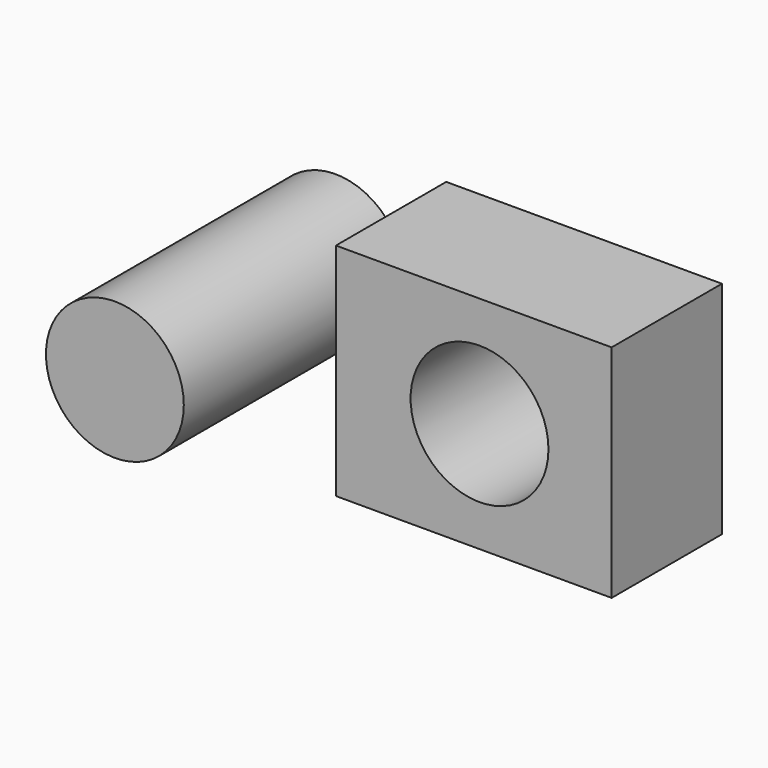
from build123d import *

# Parameters (mm, degrees)
F0_W     = 100
F0_H     = 80
F1_DEPTH = 50
F2_R     = 25
F3_DEPTH = 50
F4_R     = 25
F5_DEPTH = 100


with BuildPart() as f1:
    # F0 (on Front) → F1 (new body)
    with BuildSketch(Plane.XZ):
        Rectangle(F0_W, F0_H)
    extrude(amount=F1_DEPTH)

    # F2 (on Front) → F3 (cut)
    with BuildSketch(Plane.XZ):
        with Locations((2.086694, 0)):
            Circle(F2_R)
    extrude(amount=F3_DEPTH, mode=Mode.SUBTRACT)


with BuildPart() as f5:
    # F4 (on Front) → F5 (new body)
    with BuildSketch(Plane.XZ):
        with Locations((-90.175971, 4.424878)):
            Circle(F4_R)
    extrude(amount=F5_DEPTH)


solid = Compound([f1.part, f5.part])
